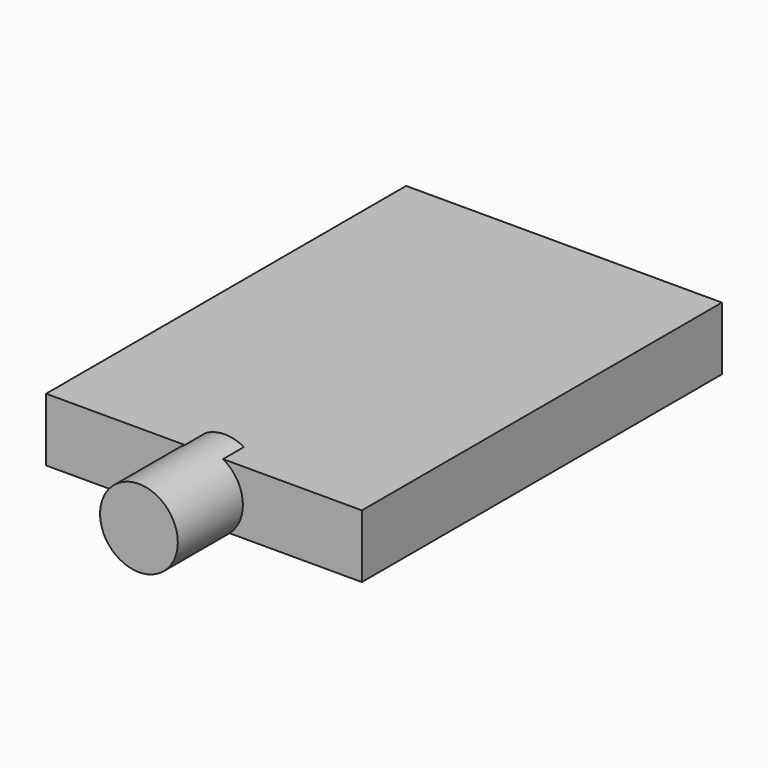
from build123d import *

# Parameters (mm, degrees)
F0_W     = 20
F0_H     = 28.5
F1_DEPTH = 4
F3_START = 12.6
F2_R     = 2.4616630518
F3_DEPTH = 6.8


with BuildPart() as f1:
    # F0 (on Top) → F1 (new body)
    with BuildSketch(Plane.XY):
        Rectangle(F0_W, F0_H)
    extrude(amount=F1_DEPTH)

    # F2 (on Front) → F3 (join)
    with BuildSketch(Plane.XZ.offset(F3_START)):
        with Locations((0, 1.8549020169)):
            Circle(F2_R)
    extrude(amount=F3_DEPTH)


solid = f1.part
